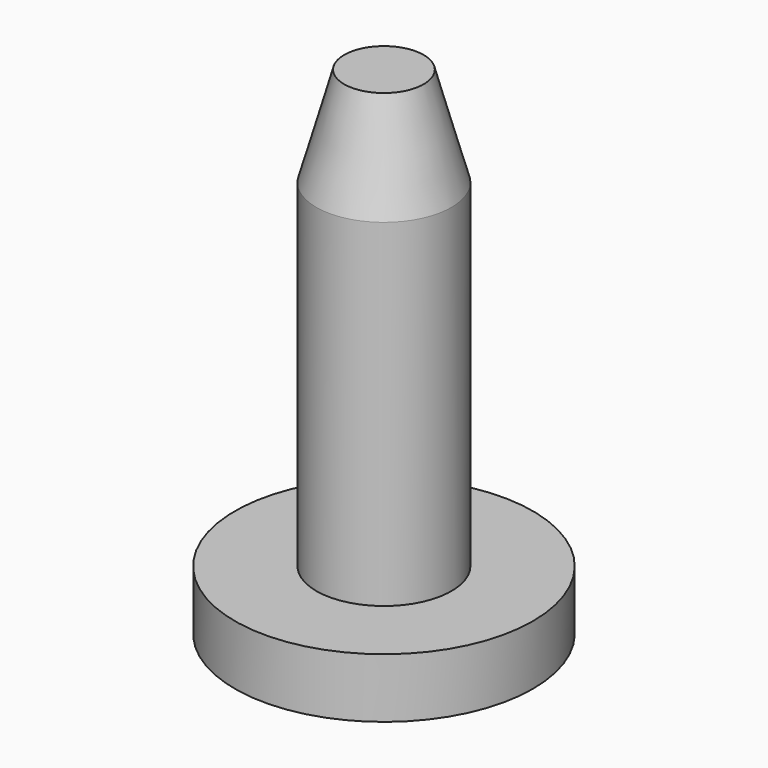
from build123d import *

# Parameters (mm, degrees)
F2_R     = 7.5
F3_DEPTH = 3


with BuildPart() as f1:
    # F0 (on Front) → F1 (revolve)
    with BuildSketch(Plane.XZ):
        Polygon((-3.4, 20), (-3.4, 0), (0, 0), (0, 25), (-2, 25), align=None)
    revolve(axis=Axis((0, 0, 24.376468), (0, 0, -1)))

    # F2 (on face) → F3 (join)
    with BuildSketch(Plane(origin=(0, 0, 0), x_dir=(1, 0, 0), z_dir=(0, 0, -1))):
        Circle(F2_R)
    extrude(amount=-F3_DEPTH)


solid = f1.part
